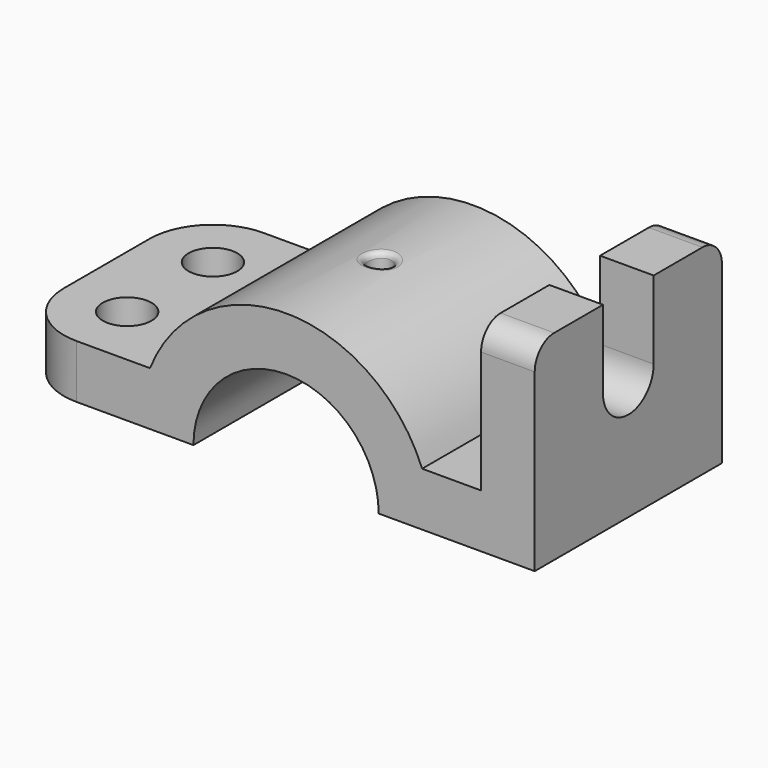
from build123d import *

# Parameters (mm, degrees)
F1_DEPTH = 48
F2_R     = 5
F3_DEPTH = 11.001
F5_DEPTH = 15.748
F6_R     = 2.5
F7_DEPTH = 41.001
F8_R     = 1.064771
F9_R     = 5


with BuildPart() as f1:
    # F0 (on Front) → F1 (new body)
    with BuildSketch(Plane.XZ):
        with BuildLine():
            Line((-27.910571, 11), (-56, 11))
            Line((-56, 11), (-56, 0))
            Line((-56, 0), (-19, 0))
            ThreePointArc((-19, 0), (0, 19), (19, 0))
            Line((19, 0), (51, 0))
            Line((51, 0), (51, 41))
            Line((51, 41), (40, 41))
            Line((40, 41), (40, 11))
            Line((40, 11), (27.910571, 11))
            ThreePointArc((27.910571, 11), (0, 30), (-27.910571, 11))
        make_face()
    extrude(amount=-F1_DEPTH)

    # F2 (on face) → F3 (cut, through all)
    with BuildSketch(Plane.XY.offset(11)):
        with Locations((-43, 35)):
            Circle(F2_R)
        with Locations((-43, 13)):
            Circle(F2_R)
        with BuildLine():
            Line((-56, 48), (-56, 35))
            ThreePointArc((-56, 35), (-52.192388, 44.192388), (-43, 48))
            Line((-43, 48), (-56, 48))
        make_face()
        with BuildLine():
            Line((-56, 0), (-43, 0))
            ThreePointArc((-43, 0), (-52.192388, 3.807612), (-56, 13))
            Line((-56, 13), (-56, 0))
        make_face()
    extrude(amount=-F3_DEPTH, mode=Mode.SUBTRACT)

    # F4 (on face) → F5 (cut)
    with BuildSketch(Plane.YZ.offset(51)):
        with BuildLine():
            Line((30.5, 41), (17.5, 41))
            Line((17.5, 41), (17.5, 25))
            ThreePointArc((17.5, 25), (24, 18.5), (30.5, 25))
            Line((30.5, 25), (30.5, 41))
        make_face()
    extrude(amount=-F5_DEPTH, mode=Mode.SUBTRACT)

    # F6 (on face) → F7 (cut, through all)
    with BuildSketch(Plane(origin=(0, 0, 0), x_dir=(1, 0, 0), z_dir=(0, 0, -1))):
        with Locations((0, -24)):
            Circle(F6_R)
    extrude(amount=-F7_DEPTH, mode=Mode.SUBTRACT)

    # F8
    f8_edges = [f1.edges().sort_by_distance(p)[0] for p in [
        (-2.5, 24, 29.895652),
    ]]
    fillet(f8_edges, radius=F8_R)

    # F9
    f9_edges = [f1.edges().sort_by_distance(p)[0] for p in [
        (45.5, 0, 41),
        (45.5, 48, 41),
    ]]
    fillet(f9_edges, radius=F9_R)


solid = f1.part
